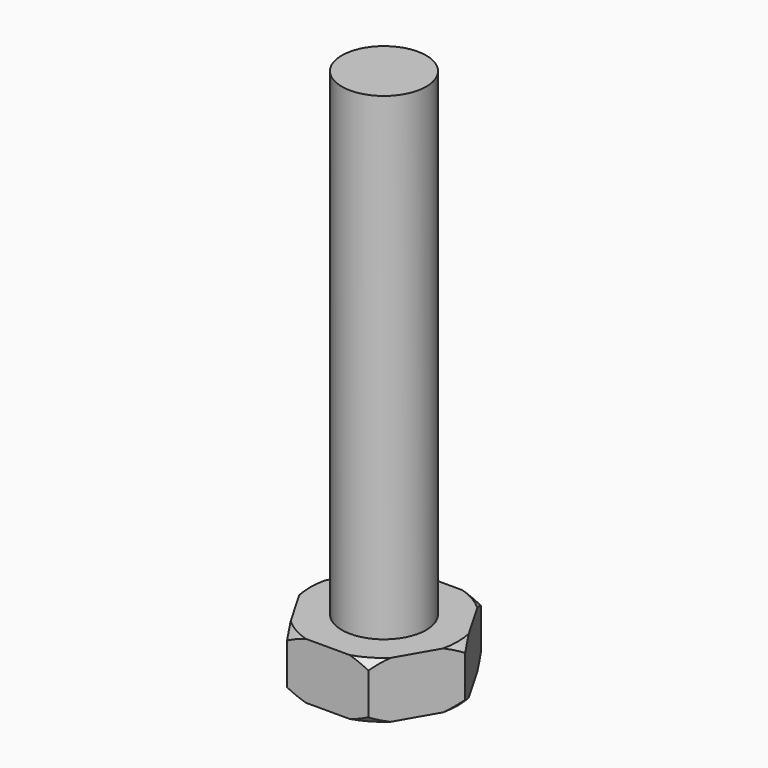
from build123d import *

# Parameters (mm, degrees)
PAD_DEPTH    = 2
SKETCH_R     = 3
PAD001_DEPTH = 34


with BuildPart() as part:
    # Sketch001 → Pad (new body, symmetric)
    with BuildSketch(Plane(origin=(0, 0, 0), x_dir=(1, 0, 0), z_dir=(0, 0, -1))):
        Polygon((5.773503, 0), (2.886751, 5), (-2.886751, 5), (-5.773503, 0), (-2.886751, -5), (2.886751, -5), align=None)
    extrude(amount=PAD_DEPTH, both=True)

    # Sketch (on Face7 of Pad) → Pad001 (join)
    with BuildSketch(Plane.XY.offset(2)):
        Circle(SKETCH_R)
    extrude(amount=PAD001_DEPTH)

    # Sketch002 → Groove (revolve, cut)
    with BuildSketch(Plane.XZ):
        Polygon((5.085171, 2.155414), (6.147601, 1.092984), (6.147601, -1.092984), (5.085171, -2.155414), (6.90312, -2.155414), (6.90312, 2.155414), align=None)
    revolve(axis=Axis((0, 0, 0), (0, 0, 1)), mode=Mode.SUBTRACT)


solid = part.part
